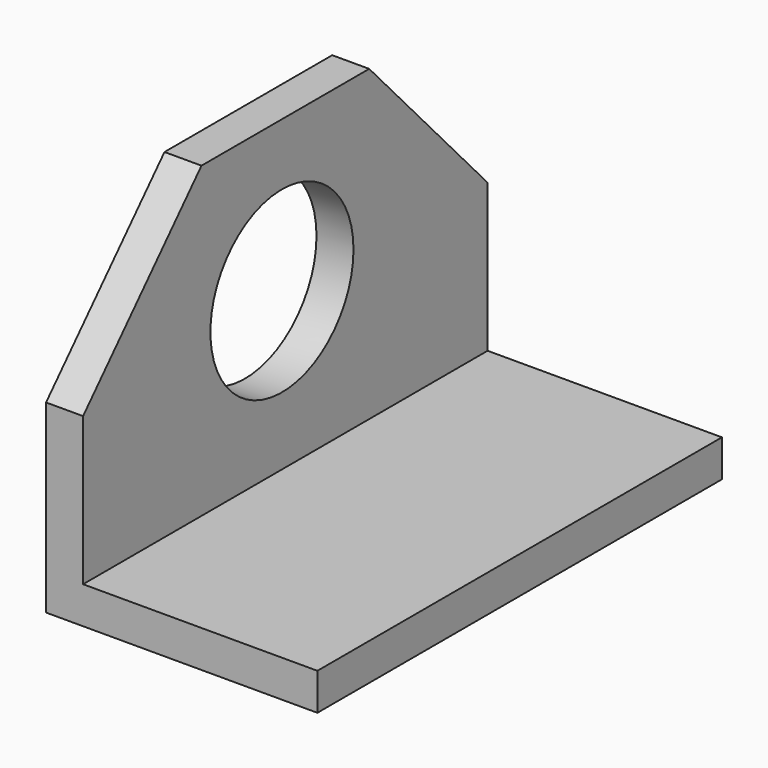
from build123d import *

# Parameters (mm, degrees)
F1_DEPTH = 130.175
F2_R     = 23.01875
F3_DEPTH = 25.4


with BuildPart() as f1:
    # F0 (on Front) → F1 (new body)
    with BuildSketch(Plane.XZ):
        Polygon((-38.131632, 38.681432), (-47.656632, 38.681432), (-47.656632, -50.218568), (22.193368, -50.218568), (22.193368, -40.693568), (-38.131632, -40.693568), align=None)
    extrude(amount=F1_DEPTH)

    # F2 (on face) → F3 (cut)
    with BuildSketch(Plane.YZ.offset(-38.131632)):
        Polygon((-130.175, -2.593568), (-92.075, 38.681432), (-130.175, 38.681432), align=None)
        Polygon((-38.1, 38.681432), (0, -2.593568), (0, 0), (0, 38.681432), align=None)
        with Locations((-66.177778, -0.212318)):
            Circle(F2_R)
    extrude(amount=-F3_DEPTH, mode=Mode.SUBTRACT)


solid = f1.part
